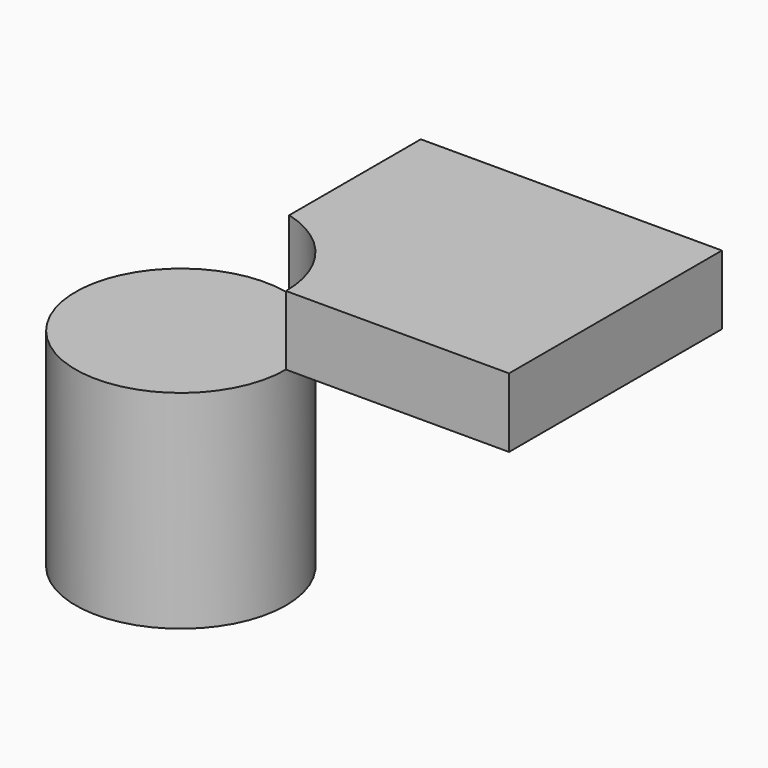
from build123d import *

# Parameters (mm, degrees)
F0_R     = 38.608578
F1_DEPTH = 76.2
F3_DEPTH = 25.4


with BuildPart() as f1:
    # F0 (on Top) → F1 (new body)
    with BuildSketch(Plane.XY):
        Circle(F0_R)
    extrude(amount=F1_DEPTH)


with BuildPart() as f3:
    # F2 (on face) → F3 (new body)
    with BuildSketch(Plane.XY.offset(76.2)):
        with BuildLine():
            ThreePointArc((9.963408, 37.300842), (30.621033, 23.515413), (38.608578, 0))
            Line((38.608578, 0), (120.475784, 0))
            Line((120.475784, 0), (120.475784, 97.660244))
            Line((120.475784, 97.660244), (9.963408, 97.660244))
            Line((9.963408, 97.660244), (9.963408, 37.300842))
        make_face()
    extrude(amount=F3_DEPTH)


solid = Compound([f1.part, f3.part])
